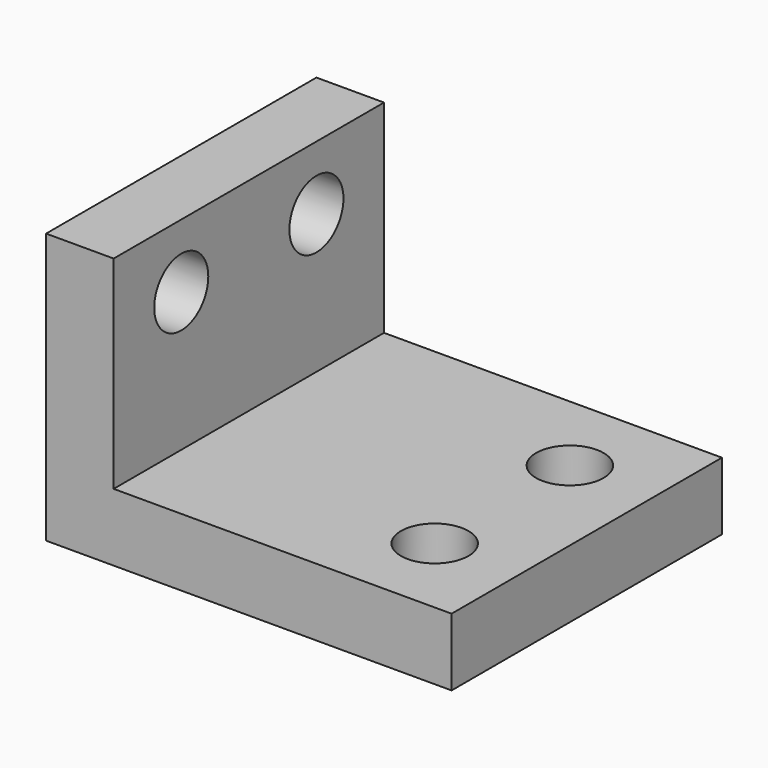
from build123d import *

# Parameters (mm, degrees)
F0_W     = 31.75
F0_H     = 31.75
F0_R     = 3.175
F1_DEPTH = 6.35
F0_W_2   = 6.35
F2_DEPTH = 25.4
F3_R     = 3.175
F4_DEPTH = 25.4


with BuildPart() as f1:
    # F0 (on Top) → F1 (new body)
    with BuildSketch(Plane.XY):
        Rectangle(F0_W, F0_H)
        with Locations((7.9375, -7.9375)):
            Circle(F0_R, mode=Mode.SUBTRACT)
        with Locations((7.9375, 7.9375)):
            Circle(F0_R, mode=Mode.SUBTRACT)
    extrude(amount=F1_DEPTH)

    # F0 (on Top) → F2 (join)
    with BuildSketch(Plane.XY):
        with Locations((-19.05, 0)):
            Rectangle(F0_W_2, F0_H)
    extrude(amount=F2_DEPTH)

    # F3 (on face) → F4 (cut)
    with BuildSketch(Plane.YZ.offset(-15.875)):
        with Locations((-7.9375, 19.4)):
            Circle(F3_R)
        with Locations((7.9375, 19.4)):
            Circle(F3_R)
    extrude(amount=-F4_DEPTH, mode=Mode.SUBTRACT)


solid = f1.part
